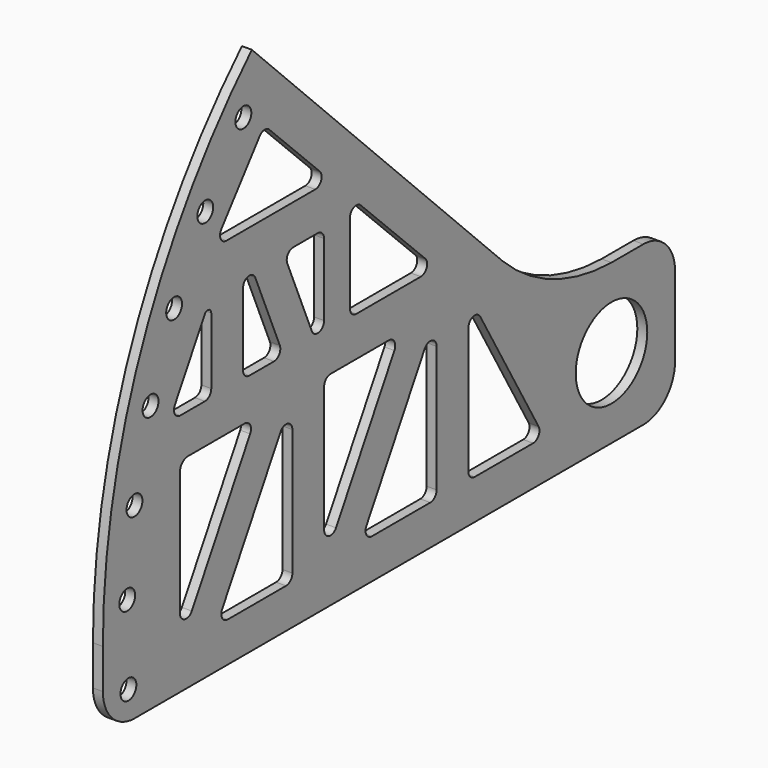
from build123d import *

# Parameters (mm, degrees)
F0_R     = 14.2875
F1_DEPTH = 3.175
F2_R     = 3.175
F3_DEPTH = 25.4
F5_DEPTH = 25.4


with BuildPart() as f1:
    # F0 (on Right) → F1 (new body)
    with BuildSketch(Plane.YZ):
        with BuildLine():
            Line((-190.5, -25.4), (12.7, -25.4))
            ThreePointArc((12.7, -25.4), (21.680256, -21.680256), (25.4, -12.7))
            Line((25.4, -12.7), (25.4, 12.7))
            ThreePointArc((25.4, 12.7), (21.680256, 21.680256), (12.7, 25.4))
            Line((12.7, 25.4), (0, 25.4))
            ThreePointArc((0, 25.4), (-23.400478, 30.227273), (-43.360512, 43.360512))
            Line((-43.360512, 43.360512), (-143.684098, 143.684098))
            ThreePointArc((-143.684098, 143.684098), (-187.732321, 77.761273), (-203.2, 0))
            Line((-203.2, 0), (-203.2, -12.7))
            ThreePointArc((-203.2, -12.7), (-199.480256, -21.680256), (-190.5, -25.4))
        make_face()
        Circle(F0_R, mode=Mode.SUBTRACT)
    extrude(amount=F1_DEPTH)

    # F2 (on face) → F3 (cut)
    with BuildSketch(Plane.YZ.offset(3.175)):
        with Locations((-192.993104, -16.237834)):
            Circle(F2_R)
        with Locations((-193.458162, 9.162166)):
            Circle(F2_R)
        with Locations((-147.064992, 126.023386)):
            Circle(F2_R)
        with Locations((-162.292342, 105.693904)):
            Circle(F2_R)
        with Locations((-174.728316, 83.546522)):
            Circle(F2_R)
        with Locations((-184.159019, 59.962166)):
            Circle(F2_R)
        with Locations((-190.566163, 34.562166)):
            Circle(F2_R)
    extrude(amount=-F3_DEPTH, mode=Mode.SUBTRACT)

    # F4 (on face) → F5 (cut)
    with BuildSketch(Plane.YZ.offset(3.175)):
        with BuildLine():
            ThreePointArc((-52.430116, 31.489606), (-55.287221, 32.673058), (-57.16982, 30.219606))
            Line((-57.16982, 30.219606), (-57.16982, -10.16))
            ThreePointArc((-57.16982, -10.16), (-56.425871, -11.956051), (-54.62982, -12.7))
            Line((-54.62982, -12.7), (-31.316644, -12.7))
            ThreePointArc((-31.316644, -12.7), (-29.116939, -11.43), (-29.116939, -8.89))
            Line((-29.116939, -8.89), (-52.430116, 31.489606))
        make_face()
        with BuildLine():
            ThreePointArc((-72.40982, -12.7), (-70.613769, -11.956051), (-69.86982, -10.16))
            Line((-69.86982, -10.16), (-69.86982, 30.219606))
            ThreePointArc((-69.86982, 30.219606), (-71.75242, 32.673058), (-74.609525, 31.489606))
            Line((-74.609525, 31.489606), (-97.922701, -8.89))
            ThreePointArc((-97.922701, -8.89), (-97.922701, -11.43), (-95.722997, -12.7))
            Line((-95.722997, -12.7), (-72.40982, -12.7))
        make_face()
        with BuildLine():
            ThreePointArc((-114.787103, -3.220591), (-112.904503, -5.674043), (-110.047398, -4.490591))
            Line((-110.047398, -4.490591), (-86.734222, 35.889015))
            ThreePointArc((-86.734222, 35.889015), (-86.734222, 38.429015), (-88.933926, 39.699015))
            Line((-88.933926, 39.699015), (-112.247103, 39.699015))
            ThreePointArc((-112.247103, 39.699015), (-114.043154, 38.955067), (-114.787103, 37.159015))
            Line((-114.787103, 37.159015), (-114.787103, -3.220591))
        make_face()
        with BuildLine():
            Line((-127.487103, -10.16), (-127.487103, 30.219606))
            ThreePointArc((-127.487103, 30.219606), (-129.369702, 32.673058), (-132.226807, 31.489606))
            Line((-132.226807, 31.489606), (-155.539984, -8.89))
            ThreePointArc((-155.539984, -8.89), (-155.539984, -11.43), (-153.340279, -12.7))
            Line((-153.340279, -12.7), (-130.027103, -12.7))
            ThreePointArc((-130.027103, -12.7), (-128.231051, -11.956051), (-127.487103, -10.16))
        make_face()
        with BuildLine():
            ThreePointArc((-169.229385, 39.699015), (-171.474449, 38.769079), (-172.404385, 36.524015))
            Line((-172.404385, 36.524015), (-172.404385, -3.220591))
            ThreePointArc((-172.404385, -3.220591), (-170.521786, -5.674043), (-167.664681, -4.490591))
            Line((-167.664681, -4.490591), (-144.351504, 35.889015))
            ThreePointArc((-144.351504, 35.889015), (-144.351504, 38.429015), (-146.551209, 39.699015))
            Line((-146.551209, 39.699015), (-169.229385, 39.699015))
        make_face()
        with BuildLine():
            Line((-162.496961, 76.890181), (-174.454135, 56.210428))
            ThreePointArc((-174.454135, 56.210428), (-174.455359, 53.669722), (-172.255247, 52.399015))
            Line((-172.255247, 52.399015), (-162.435202, 52.399015))
            ThreePointArc((-162.435202, 52.399015), (-160.63915, 53.142964), (-159.895202, 54.939015))
            Line((-159.895202, 54.939015), (-159.895202, 76.192146))
            ThreePointArc((-159.895202, 76.192146), (-160.92836, 77.539032), (-162.496961, 76.890181))
        make_face()
        with BuildLine():
            ThreePointArc((-142.3178, 79.023671), (-145.162448, 80.518448), (-147.195202, 78.029613))
            Line((-147.195202, 78.029613), (-147.195202, 54.939015))
            ThreePointArc((-147.195202, 54.939015), (-146.451253, 53.142964), (-144.655202, 52.399015))
            Line((-144.655202, 52.399015), (-134.835156, 52.399015))
            ThreePointArc((-134.835156, 52.399015), (-132.716607, 53.537821), (-132.497754, 55.933073))
            Line((-132.497754, 55.933073), (-142.3178, 79.023671))
        make_face()
        with BuildLine():
            ThreePointArc((-127.205028, 81.389885), (-129.323578, 80.25108), (-129.54243, 77.855827))
            Line((-129.54243, 77.855827), (-119.722385, 54.765229))
            ThreePointArc((-119.722385, 54.765229), (-116.877736, 53.270452), (-114.844983, 55.759288))
            Line((-114.844983, 55.759288), (-114.844983, 78.849885))
            ThreePointArc((-114.844983, 78.849885), (-115.588931, 80.645936), (-117.384983, 81.389885))
            Line((-117.384983, 81.389885), (-127.205028, 81.389885))
        make_face()
        with BuildLine():
            Line((-104.493987, 80.426647), (-104.493987, 54.939015))
            ThreePointArc((-104.493987, 54.939015), (-103.750038, 53.142964), (-101.953987, 52.399015))
            Line((-101.953987, 52.399015), (-76.188018, 52.399015))
            ThreePointArc((-76.188018, 52.399015), (-73.838733, 53.973375), (-74.401746, 56.744794))
            Line((-74.401746, 56.744794), (-100.167715, 82.232425))
            ThreePointArc((-100.167715, 82.232425), (-102.932371, 82.770653), (-104.493987, 80.426647))
        make_face()
        with BuildLine():
            Line((-153.851107, 94.089885), (-118.334172, 94.089885))
            ThreePointArc((-118.334172, 94.089885), (-115.984887, 95.664245), (-116.5479, 98.435663))
            Line((-116.5479, 98.435663), (-136.720031, 118.389885))
            ThreePointArc((-136.720031, 118.389885), (-138.677975, 119.118298), (-140.519792, 118.13248))
            Line((-140.519792, 118.13248), (-155.864596, 98.178259))
            ThreePointArc((-155.864596, 98.178259), (-156.129755, 95.507671), (-153.851107, 94.089885))
        make_face()
    extrude(amount=-F5_DEPTH, mode=Mode.SUBTRACT)


solid = f1.part
